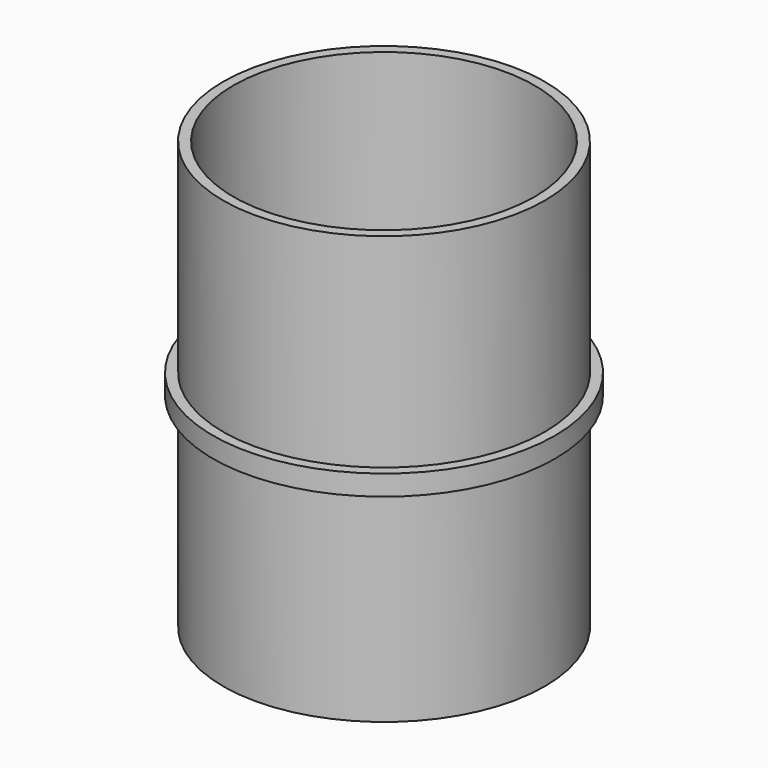
from build123d import *

# Parameters (mm, degrees)
F0_R     = 21
F1_DEPTH = 2.5
F3_R     = 19.75
F3_R_2   = 18.5
F4_DEPTH = 25
F6_R     = 19.75
F6_R_2   = 18.5
F7_DEPTH = 25


with BuildPart() as f1:
    # F0 (on Top) → F1 (new body)
    with BuildSketch(Plane.XY):
        Circle(F0_R)
    extrude(amount=F1_DEPTH)

    # F3 (on face) → F4 (join)
    with BuildSketch(Plane(origin=(0, 0, 0), x_dir=(1, 0, 0), z_dir=(0, 0, -1))):
        Circle(F3_R)
        Circle(F3_R_2, mode=Mode.SUBTRACT)
    extrude(amount=F4_DEPTH)

    # F6 (on face) → F7 (join)
    with BuildSketch(Plane.XY.offset(2.5)):
        Circle(F6_R)
        Circle(F6_R_2, mode=Mode.SUBTRACT)
    extrude(amount=F7_DEPTH)


solid = f1.part
